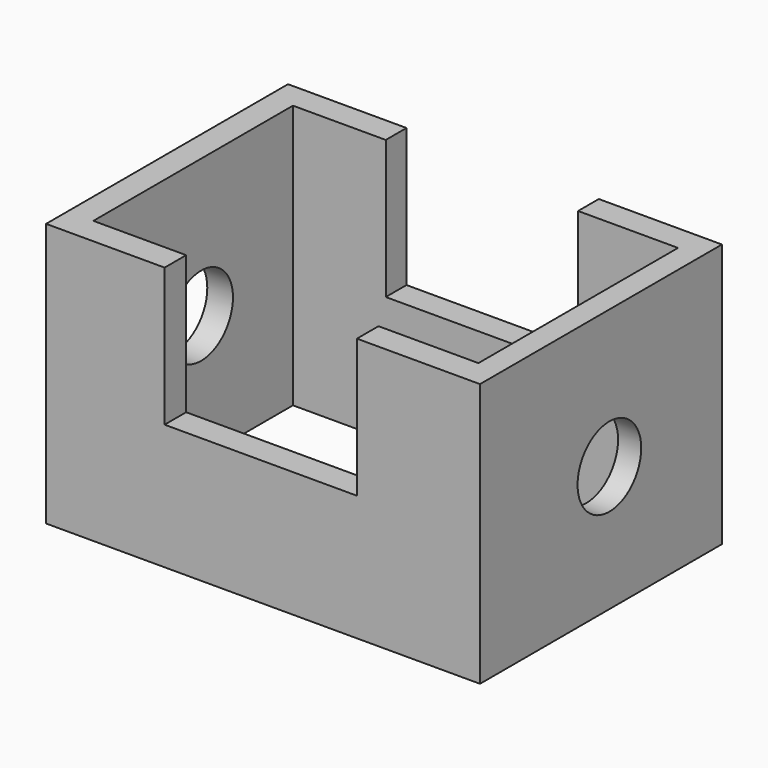
from build123d import *

# Parameters (mm, degrees)
F0_W     = 182.2371855378
F0_H     = 110.8047105372
F1_DEPTH = 127
F2_W     = 80.7708539069
F2_H     = 63.6986494064
F3_DEPTH = 127.001
F4_W     = 161.728402134
F4_H     = 104.781774804
F5_DEPTH = 110.8057105372
F6_R     = 16.7086573523
F7_DEPTH = 182.2381855378


with BuildPart() as f1:
    # F0 (on Front) → F1 (new body)
    with BuildSketch(Plane.XZ):
        with Locations((4.7809146345, 2.6716869324)):
            Rectangle(F0_W, F0_H)
    extrude(amount=-F1_DEPTH)

    # F2 (on Front) → F3 (cut, through all)
    with BuildSketch(Plane.XZ):
        with Locations((3.8164127618, 31.8493247032)):
            Rectangle(F2_W, F2_H)
    extrude(amount=-F3_DEPTH, mode=Mode.SUBTRACT)

    # F4 (on face) → F5 (cut, through all)
    with BuildSketch(Plane(origin=(0, 0, -52.7306683362), x_dir=(1, 0, 0), z_dir=(0, 0, -1))):
        with Locations((5.3121293895, -63.7166202068)):
            Rectangle(F4_W, F4_H)
    extrude(amount=-F5_DEPTH, mode=Mode.SUBTRACT)

    # F6 (on face) → F7 (cut, through all)
    with BuildSketch(Plane.YZ.offset(95.8995074034)):
        with Locations((67.9201483727, 0)):
            Circle(F6_R)
    extrude(amount=-F7_DEPTH, mode=Mode.SUBTRACT)


solid = f1.part
